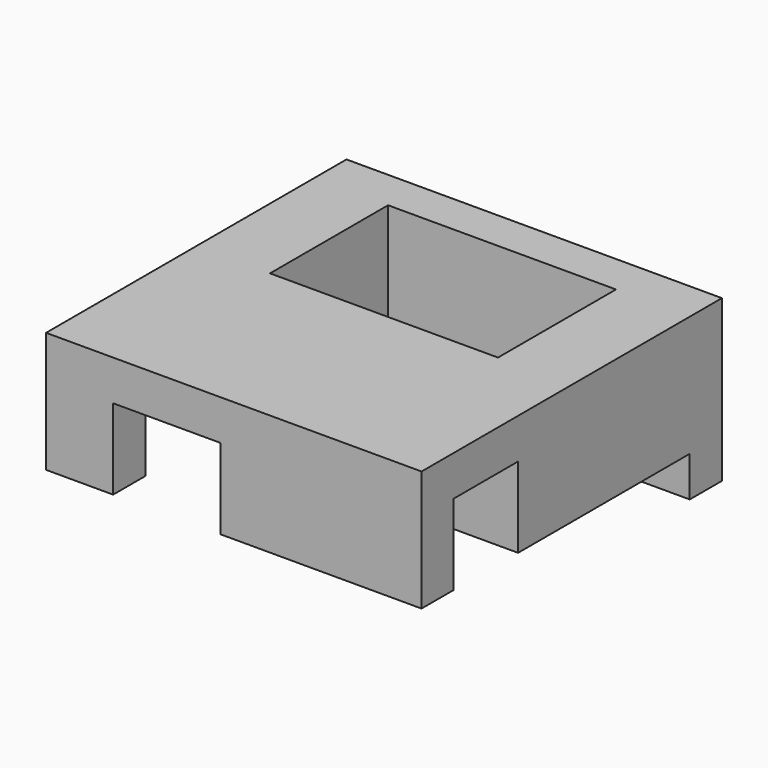
from build123d import *

# Parameters (mm, degrees)
BOX015_W     = 5.5
BOX015_H     = 11
BOX015_DEPTH = 9
BOX016_W     = 5.5
BOX016_H     = 11
BOX016_DEPTH = 9
BOX022_W     = 28
BOX022_H     = 5
BOX022_DEPTH = 9
BOX019_W     = 28
BOX019_H     = 9
BOX019_DEPTH = 3
BOX021_W     = 15
BOX021_H     = 3
BOX021_DEPTH = 6
BOX020_W     = 5
BOX020_H     = 3
BOX020_DEPTH = 6
BOX017_W     = 28
BOX017_H     = 3
BOX017_DEPTH = 12


with BuildPart() as cube014:
    # Box015 → Box015 (new body)
    with BuildSketch(Plane(origin=(8.5, 1, 0), x_dir=(1, 0, 0), z_dir=(0, 0, 1))):
        with Locations((2.75, 5.5)):
            Rectangle(BOX015_W, BOX015_H)
    extrude(amount=BOX015_DEPTH)


with BuildPart() as cube015:
    # Box016 → Box016 (new body)
    with BuildSketch(Plane(origin=(-14, 1, 0), x_dir=(1, 0, 0), z_dir=(0, 0, 1))):
        with Locations((2.75, 5.5)):
            Rectangle(BOX016_W, BOX016_H)
    extrude(amount=BOX016_DEPTH)


with BuildPart() as cube021:
    # Box022 → Box022 (new body)
    with BuildSketch(Plane(origin=(-14, -4, 0), x_dir=(1, 0, 0), z_dir=(0, 0, 1))):
        with Locations((14, 2.5)):
            Rectangle(BOX022_W, BOX022_H)
    extrude(amount=BOX022_DEPTH)


with BuildPart() as cube018:
    # Box019 → Box019 (new body)
    with BuildSketch(Plane(origin=(-14, -13, 6), x_dir=(1, 0, 0), z_dir=(0, 0, 1))):
        with Locations((14, 4.5)):
            Rectangle(BOX019_W, BOX019_H)
    extrude(amount=BOX019_DEPTH)


with BuildPart() as cube020:
    # Box021 → Box021 (new body)
    with BuildSketch(Plane(origin=(-1, -13, 0), x_dir=(1, 0, 0), z_dir=(0, 0, 1))):
        with Locations((7.5, 1.5)):
            Rectangle(BOX021_W, BOX021_H)
    extrude(amount=BOX021_DEPTH)


with BuildPart() as cube019:
    # Box020 → Box020 (new body)
    with BuildSketch(Plane(origin=(-14, -13, 0), x_dir=(1, 0, 0), z_dir=(0, 0, 1))):
        with Locations((2.5, 1.5)):
            Rectangle(BOX020_W, BOX020_H)
    extrude(amount=BOX020_DEPTH)


with BuildPart() as fusion003002002002:
    # Box017 → Box017 (new body)
    with BuildSketch(Plane(origin=(-14, 12, -3), x_dir=(1, 0, 0), z_dir=(0, 0, 1))):
        with Locations((14, 1.5)):
            Rectangle(BOX017_W, BOX017_H)
    extrude(amount=BOX017_DEPTH)

    # Fusion003002002002: union Cube014, Cube015, Cube021, Cube018, Cube020, Cube019
    add(cube014.part)
    add(cube015.part)
    add(cube021.part)
    add(cube018.part)
    add(cube020.part)
    add(cube019.part)


solid = fusion003002002002.part
